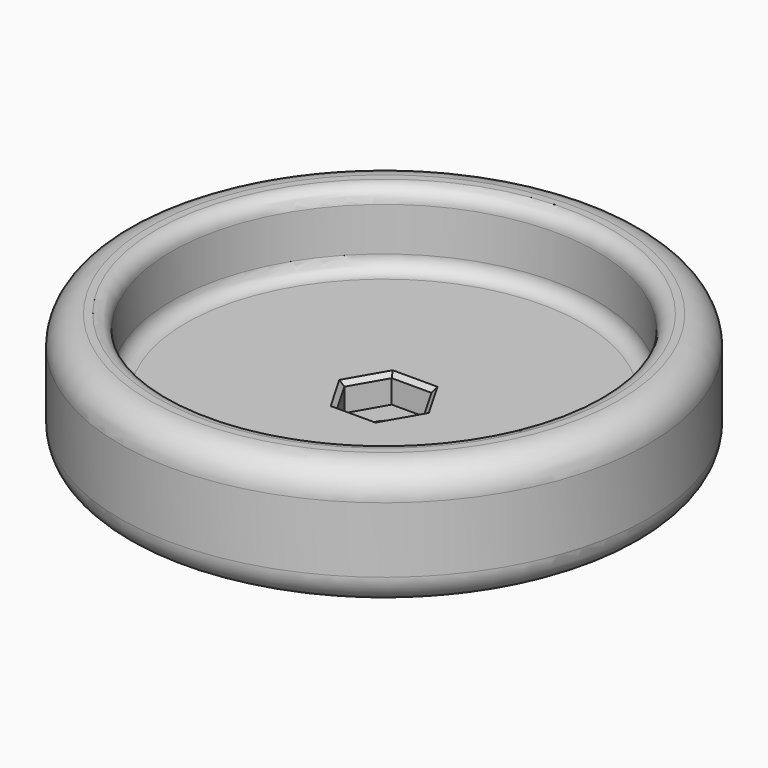
from build123d import *

# Parameters (mm, degrees)
SKETCH_R        = 46.0375
SKETCH_R_2      = 2.0955
PAD_DEPTH       = 21.59
SKETCH001_R     = 37.1475
POCKET_DEPTH    = 12.7
POCKET001_DEPTH = 4.826
FILLET_R        = 5.08
FILLET001_R     = 2.54
CHAMFER_SIZE    = 0.762


with BuildPart() as part:
    # Sketch → Pad (new body)
    with BuildSketch(Plane.XY):
        Circle(SKETCH_R)
        Circle(SKETCH_R_2, mode=Mode.SUBTRACT)
    extrude(amount=PAD_DEPTH)

    # Sketch001 (on Face4 of Pad) → Pocket (cut)
    with BuildSketch(Plane.XY.offset(21.59)):
        Circle(SKETCH001_R)
    extrude(amount=-POCKET_DEPTH, mode=Mode.SUBTRACT)

    # Sketch002 (on Face6 of Pocket) → Pocket001 (cut)
    with BuildSketch(Plane.XY.offset(8.89)):
        Polygon((6.928203, 0), (3.464102, 6), (-3.464102, 6), (-6.928203, 0), (-3.464102, -6), (3.464102, -6), align=None)
    extrude(amount=-POCKET001_DEPTH, mode=Mode.SUBTRACT)

    # Fillet
    fillet_edges = [part.edges().sort_by_distance(p)[0] for p in [
        (-46.0375, 0, 21.59),
        (-46.0375, 0, 0),
    ]]
    fillet(fillet_edges, radius=FILLET_R)

    # Fillet001
    fillet001_edges = [part.edges().sort_by_distance(p)[0] for p in [
        (-37.1475, 0, 21.59),
        (-37.1475, 0, 8.89),
    ]]
    fillet(fillet001_edges, radius=FILLET001_R)

    # Chamfer
    chamfer_edges = [part.edges().sort_by_distance(p)[0] for p in [
        (-5.196152, 3, 8.89),
        (-5.196152, -3, 8.89),
        (0, -6, 8.89),
        (5.196152, -3, 8.89),
        (5.196152, 3, 8.89),
        (0, 6, 8.89),
    ]]
    chamfer(chamfer_edges, length=CHAMFER_SIZE)


solid = part.part
